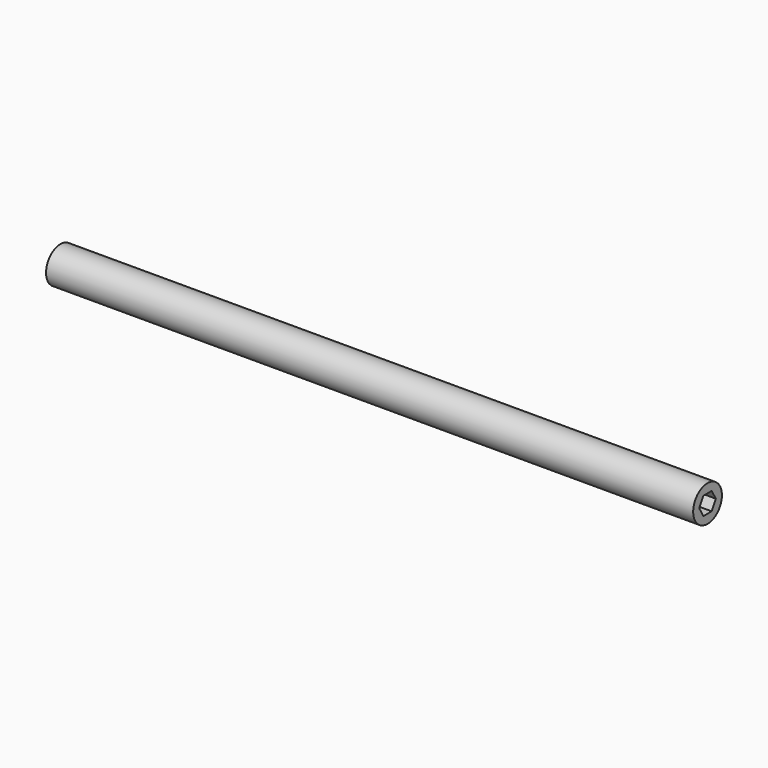
from build123d import *

# Parameters (mm, degrees)
F0_R     = 12.7
F1_DEPTH = 457.2


with BuildPart() as f1:
    # F0 (on Right) → F1 (new body)
    with BuildSketch(Plane.YZ):
        Circle(F0_R)
        Polygon((-3.662843, 6.351922), (3.669504, 6.348076), (7.332347, -0.003845), (3.662843, -6.351922), (-3.669504, -6.348076), (-7.332347, 0.003845), align=None, mode=Mode.SUBTRACT)
    extrude(amount=F1_DEPTH)


solid = f1.part
